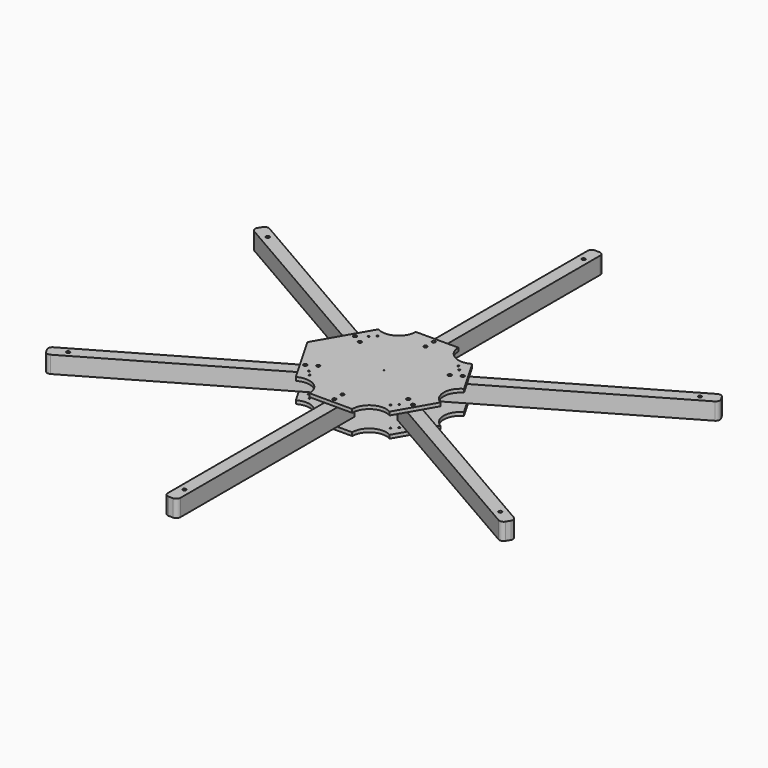
from build123d import *

# Parameters (mm, degrees)
F1_R        = 2
F2_DEPTH    = 20
F1_W        = 15
F1_H        = 260
F3_R        = 2
F3_R_2      = 0.5
F4_DEPTH    = 4
F5_START    = -24
F4_FACE_R   = 2
F4_FACE_R_2 = 0.5
F5_DEPTH    = 4
F6_DEPTH    = 40
F7_R        = 5
F7_2_R      = 5
F7_3_R      = 5
F7_4_R      = 5
F7_5_R      = 5
F7_6_R      = 5
F8_R        = 1
F9_DEPTH    = 28


with BuildPart() as f2:
    # F1 (on Top) → F2 (new body)
    with BuildSketch(Plane.XY):
        Polygon((39.2264058929, 122.199859211), (46.7264058929, 135.1902402677), (-178.4401990911, 265.1902402677), (-185.9401990911, 252.199859211), align=None)
        with Locations((-164.8696910154, 248.6950497393)):
            Circle(F1_R, mode=Mode.SUBTRACT)
    extrude(amount=F2_DEPTH)


with BuildPart() as f2b:
    # F1 (on Top) → F2, piece 2 (new body)
    with BuildSketch(Plane.XY):
        with Locations((88.8674220443, 285.1902402677)):
            Rectangle(F1_W, F1_H)
        with Locations((88.8674220443, 395.1902402677)):
            Circle(F1_R, mode=Mode.SUBTRACT)
    extrude(amount=F2_DEPTH)


with BuildPart() as f2c:
    # F1 (on Top) → F2, piece 3 (new body)
    with BuildSketch(Plane.XY):
        Polygon((356.1750431796, 265.1902402677), (131.0084381957, 135.1902402677), (138.5084381957, 122.199859211), (363.6750431796, 252.199859211), align=None)
        with Locations((342.6045351039, 248.6950497393)):
            Circle(F1_R, mode=Mode.SUBTRACT)
    extrude(amount=F2_DEPTH)


with BuildPart() as f2d:
    # F1 (on Top) → F2, piece 4 (new body)
    with BuildSketch(Plane.XY):
        Polygon((363.6750431796, -47.800140789), (138.5084381957, 82.199859211), (131.0084381957, 69.2094781542), (356.1750431796, -60.7905218458), align=None)
        with Locations((342.6045351039, -44.2953313174)):
            Circle(F1_R, mode=Mode.SUBTRACT)
    extrude(amount=F2_DEPTH)


with BuildPart() as f2e:
    # F1 (on Top) → F2, piece 5 (new body)
    with BuildSketch(Plane.XY):
        with Locations((88.8674220443, -80.7905218458)):
            Rectangle(F1_W, F1_H)
        with Locations((88.8674220443, -190.7905218458)):
            Circle(F1_R, mode=Mode.SUBTRACT)
    extrude(amount=F2_DEPTH)


with BuildPart() as f2f:
    # F1 (on Top) → F2, piece 6 (new body)
    with BuildSketch(Plane.XY):
        Polygon((46.7264058929, 69.2094781542), (39.2264058929, 82.199859211), (-185.9401990911, -47.800140789), (-178.4401990911, -60.7905218458), align=None)
        with Locations((-164.8696910154, -44.2953313174)):
            Circle(F1_R, mode=Mode.SUBTRACT)
    extrude(amount=F2_DEPTH)


with BuildPart() as f4:
    # F3 (on Top) → F4 (new body)
    with BuildSketch(Plane.XY):
        with BuildLine():
            Line((113.8951895416, 180.1902402677), (63.839654547, 180.1902402677))
            ThreePointArc((63.839654547, 180.1902402677), (53.839654547, 162.869732192), (33.839654547, 162.869732192))
            Line((33.839654547, 162.869732192), (8.8118870496, 119.5203672867))
            ThreePointArc((8.8118870496, 119.5203672867), (18.8118870496, 102.199859211), (8.8118870496, 84.8793511353))
            Line((8.8118870496, 84.8793511353), (33.839654547, 41.5299862299))
            ThreePointArc((33.839654547, 41.5299862299), (53.839654547, 41.5299862299), (63.839654547, 24.2094781542))
            Line((63.839654547, 24.2094781542), (113.8951895416, 24.2094781542))
            ThreePointArc((113.8951895416, 24.2094781542), (123.8951895416, 41.5299862299), (143.8951895416, 41.5299862299))
            Line((143.8951895416, 41.5299862299), (168.9229570389, 84.8793511353))
            ThreePointArc((168.9229570389, 84.8793511353), (158.9229570389, 102.199859211), (168.9229570389, 119.5203672867))
            Line((168.9229570389, 119.5203672867), (143.8951895416, 162.869732192))
            ThreePointArc((143.8951895416, 162.869732192), (123.8951895416, 162.869732192), (113.8951895416, 180.1902402677))
        make_face()
        with Locations((88.8674220443, 29.2094781542)):
            Circle(F3_R, mode=Mode.SUBTRACT)
        with Locations((88.8674220443, 41.2094781542)):
            Circle(F3_R, mode=Mode.SUBTRACT)
        with Locations((25.6558978172, 65.7046686826)):
            Circle(F3_R, mode=Mode.SUBTRACT)
        with Locations((36.0482026626, 71.7046686826)):
            Circle(F3_R, mode=Mode.SUBTRACT)
        with Locations((141.6866414259, 71.7046686826)):
            Circle(F3_R, mode=Mode.SUBTRACT)
        with Locations((152.0789462713, 65.7046686826)):
            Circle(F3_R, mode=Mode.SUBTRACT)
        with Locations((25.6558978172, 138.6950497393)):
            Circle(F3_R, mode=Mode.SUBTRACT)
        with Locations((36.0482026626, 132.6950497393)):
            Circle(F3_R, mode=Mode.SUBTRACT)
        with Locations((88.8674220443, 102.199859211)):
            Circle(F3_R_2, mode=Mode.SUBTRACT)
        with Locations((88.8674220443, 163.1902402677)):
            Circle(F3_R, mode=Mode.SUBTRACT)
        with Locations((88.8674220443, 175.1902402677)):
            Circle(F3_R, mode=Mode.SUBTRACT)
        with Locations((141.6866414259, 132.6950497393)):
            Circle(F3_R, mode=Mode.SUBTRACT)
        with Locations((152.0789462713, 138.6950497393)):
            Circle(F3_R, mode=Mode.SUBTRACT)
        with BuildLine():
            ThreePointArc((8.8118870496, 84.8793511353), (18.8118870496, 102.199859211), (8.8118870496, 119.5203672867))
            Line((8.8118870496, 119.5203672867), (-1.1881129504, 102.199859211))
            Line((-1.1881129504, 102.199859211), (8.8118870496, 84.8793511353))
        make_face()
    extrude(amount=-F4_DEPTH)


with BuildPart() as f5:
    # F4_face (on face) → F5 (new body)
    with BuildSketch(Plane(origin=(87.1088779313, 102.199859211, -4), x_dir=(1, 0, 0), z_dir=(0, 0, -1)).offset(F5_START)):
        with BuildLine():
            ThreePointArc((26.7863116103, -77.9903810568), (36.7863116103, -60.6698729811), (56.7863116103, -60.6698729811))
            Line((56.7863116103, -60.6698729811), (81.8140791076, -17.3205080757))
            ThreePointArc((81.8140791076, -17.3205080757), (71.8140791076, 0), (81.8140791076, 17.3205080757))
            Line((81.8140791076, 17.3205080757), (56.7863116103, 60.6698729811))
            ThreePointArc((56.7863116103, 60.6698729811), (36.7863116103, 60.6698729811), (26.7863116103, 77.9903810568))
            Line((26.7863116103, 77.9903810568), (-23.2692233843, 77.9903810568))
            ThreePointArc((-23.2692233843, 77.9903810568), (-33.2692233843, 60.6698729811), (-53.2692233843, 60.6698729811))
            Line((-53.2692233843, 60.6698729811), (-88.2969908817, 0))
            Line((-88.2969908817, 0), (-53.2692233843, -60.6698729811))
            ThreePointArc((-53.2692233843, -60.6698729811), (-33.2692233843, -60.6698729811), (-23.2692233843, -77.9903810568))
            Line((-23.2692233843, -77.9903810568), (26.7863116103, -77.9903810568))
        make_face()
        with Locations((1.758544113, 72.9903810568)):
            Circle(F4_FACE_R, mode=Mode.SUBTRACT)
        with Locations((1.758544113, 60.9903810568)):
            Circle(F4_FACE_R, mode=Mode.SUBTRACT)
        with Locations((-61.4529801141, 36.4951905284)):
            Circle(F4_FACE_R, mode=Mode.SUBTRACT)
        with Locations((-51.0606752687, 30.4951905284)):
            Circle(F4_FACE_R, mode=Mode.SUBTRACT)
        with Locations((54.5777634946, 30.4951905284)):
            Circle(F4_FACE_R, mode=Mode.SUBTRACT)
        with Locations((64.9700683401, 36.4951905284)):
            Circle(F4_FACE_R, mode=Mode.SUBTRACT)
        with Locations((-61.4529801141, -36.4951905284)):
            Circle(F4_FACE_R, mode=Mode.SUBTRACT)
        with Locations((-51.0606752687, -30.4951905284)):
            Circle(F4_FACE_R, mode=Mode.SUBTRACT)
        with Locations((1.758544113, 0)):
            Circle(F4_FACE_R_2, mode=Mode.SUBTRACT)
        with Locations((1.758544113, -60.9903810568)):
            Circle(F4_FACE_R, mode=Mode.SUBTRACT)
        with Locations((1.758544113, -72.9903810568)):
            Circle(F4_FACE_R, mode=Mode.SUBTRACT)
        with Locations((54.5777634946, -30.4951905284)):
            Circle(F4_FACE_R, mode=Mode.SUBTRACT)
        with Locations((64.9700683401, -36.4951905284)):
            Circle(F4_FACE_R, mode=Mode.SUBTRACT)
    extrude(amount=-F5_DEPTH)


with BuildPart() as f6_tool:
    # F3 (on Top) → F6 (new body)
    with BuildSketch(Plane.XY):
        with Locations((88.8674220443, 29.2094781542)):
            Circle(F3_R)
        with Locations((36.0482026626, 71.7046686826)):
            Circle(F3_R)
        with Locations((25.6558978172, 65.7046686826)):
            Circle(F3_R)
        with Locations((25.6558978172, 138.6950497393)):
            Circle(F3_R)
        with Locations((36.0482026626, 132.6950497393)):
            Circle(F3_R)
        with Locations((88.8674220443, 163.1902402677)):
            Circle(F3_R)
        with Locations((88.8674220443, 175.1902402677)):
            Circle(F3_R)
        with Locations((88.8674220443, 41.2094781542)):
            Circle(F3_R)
        with Locations((141.6866414259, 71.7046686826)):
            Circle(F3_R)
        with Locations((152.0789462713, 138.6950497393)):
            Circle(F3_R)
        with Locations((141.6866414259, 132.6950497393)):
            Circle(F3_R)
        with Locations((152.0789462713, 65.7046686826)):
            Circle(F3_R)
    extrude(amount=F6_DEPTH)


with BuildPart() as f2_1:
    add(f2.part)

    # F6: cut by f6_tool
    add(f6_tool.part, mode=Mode.SUBTRACT)

    # F7#2
    f7_2_edges = [f2_1.edges().sort_by_distance(p)[0] for p in [
        (-185.940199, 252.199859, 10),
        (-178.440199, 265.19024, 10),
    ]]
    fillet(f7_2_edges, radius=F7_2_R)


with BuildPart() as f2b_1:
    add(f2b.part)

    # F6: cut by f6_tool
    add(f6_tool.part, mode=Mode.SUBTRACT)

    # F7#3
    f7_3_edges = [f2b_1.edges().sort_by_distance(p)[0] for p in [
        (81.367422, 415.19024, 10),
        (96.367422, 415.19024, 10),
    ]]
    fillet(f7_3_edges, radius=F7_3_R)


with BuildPart() as f2c_1:
    add(f2c.part)

    # F6: cut by f6_tool
    add(f6_tool.part, mode=Mode.SUBTRACT)

    # F7#4
    f7_4_edges = [f2c_1.edges().sort_by_distance(p)[0] for p in [
        (363.675043, 252.199859, 10),
        (356.175043, 265.19024, 10),
    ]]
    fillet(f7_4_edges, radius=F7_4_R)


with BuildPart() as f2d_1:
    add(f2d.part)

    # F6: cut by f6_tool
    add(f6_tool.part, mode=Mode.SUBTRACT)

    # F7#5
    f7_5_edges = [f2d_1.edges().sort_by_distance(p)[0] for p in [
        (363.675043, -47.800141, 10),
        (356.175043, -60.790522, 10),
    ]]
    fillet(f7_5_edges, radius=F7_5_R)


with BuildPart() as f2e_1:
    add(f2e.part)

    # F6: cut by f6_tool
    add(f6_tool.part, mode=Mode.SUBTRACT)

    # F7#6
    f7_6_edges = [f2e_1.edges().sort_by_distance(p)[0] for p in [
        (96.367422, -210.790522, 10),
        (81.367422, -210.790522, 10),
    ]]
    fillet(f7_6_edges, radius=F7_6_R)


with BuildPart() as f2f_1:
    add(f2f.part)

    # F6: cut by f6_tool
    add(f6_tool.part, mode=Mode.SUBTRACT)

    # F7
    f7_edges = [f2f_1.edges().sort_by_distance(p)[0] for p in [
        (-178.440199, -60.790522, 10),
        (-185.940199, -47.800141, 10),
    ]]
    fillet(f7_edges, radius=F7_R)


with BuildPart() as f9_tool:
    # F8 (on face) → F9 (new body, through all)
    with BuildSketch(Plane(origin=(0, 0, -4), x_dir=(1, 0, 0), z_dir=(0, 0, -1))):
        with Locations((35.759527528, -58.2046686826)):
            Circle(F8_R)
        with Locations((41.3167944917, -52.4499502799)):
            Circle(F8_R)
        with Locations((41.3167944917, -151.9497681421)):
            Circle(F8_R)
        with Locations((35.759527528, -146.1950497393)):
            Circle(F8_R)
        with Locations((136.4180495969, -52.4499502799)):
            Circle(F8_R)
        with Locations((141.9753165605, -58.2046686826)):
            Circle(F8_R)
        with Locations((136.4180495969, -151.9497681421)):
            Circle(F8_R)
        with Locations((141.9753165605, -146.1950497393)):
            Circle(F8_R)
    extrude(amount=-F9_DEPTH)


with BuildPart() as f4_1:
    add(f4.part)

    # F9: cut by f9_tool
    add(f9_tool.part, mode=Mode.SUBTRACT)


with BuildPart() as f5_1:
    add(f5.part)

    # F9: cut by f9_tool
    add(f9_tool.part, mode=Mode.SUBTRACT)


solid = Compound([f2_1.part, f2b_1.part, f2c_1.part, f2d_1.part, f2e_1.part, f2f_1.part, f4_1.part, f5_1.part])
